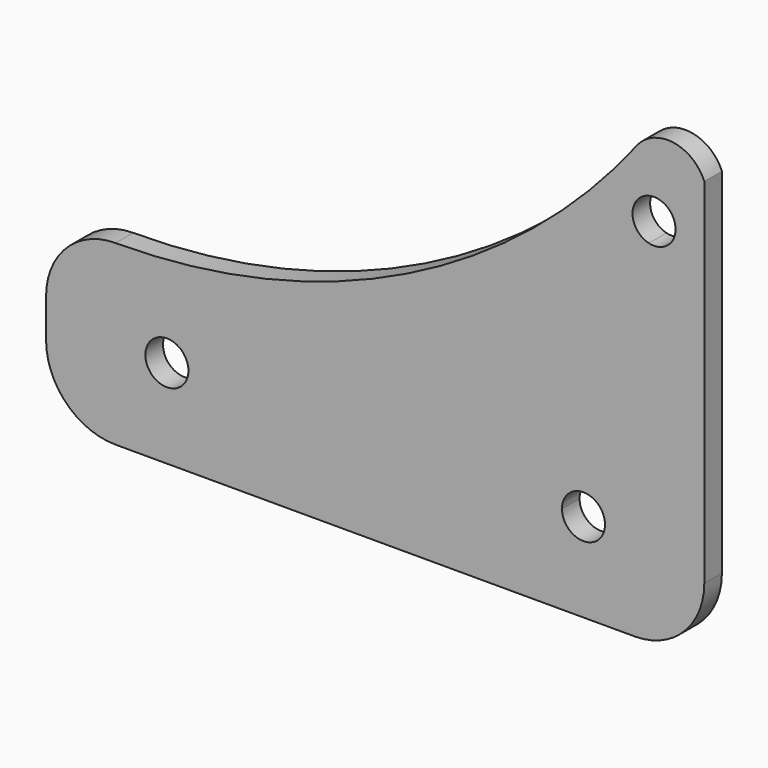
from build123d import *

# Parameters (mm, degrees)
F0_R     = 3.1
F1_DEPTH = 3.175


with BuildPart() as f1:
    # F0 (on Front) → F1 (new body)
    with BuildSketch(Plane.XZ):
        with BuildLine():
            Line((-37.399294, 12.782879), (33.18713, 12.782879))
            Line((33.18713, 12.782879), (47.399294, 12.782879))
            Line((47.399294, 12.782879), (47.399294, 48.182173))
            ThreePointArc((47.399294, 48.182173), (43.129985, 51.621773), (37.936869, 49.864105))
            ThreePointArc((37.936869, 49.864105), (4.584497, 22.555471), (-37.399294, 12.782879))
        make_face()
        with BuildLine():
            ThreePointArc((43.26072, 40.752421), (42.06927, 38.309587), (39.410762, 37.744504))
            ThreePointArc((39.410762, 37.744504), (38.252169, 43.195254), (43.26072, 40.752421))
        make_face(mode=Mode.SUBTRACT)
        with BuildLine():
            Line((47.399294, 12.782879), (33.18713, 12.782879))
            Line((33.18713, 12.782879), (-37.399294, 12.782879))
            ThreePointArc((-37.399294, 12.782879), (-44.470361, 9.853947), (-47.399294, 2.782879))
            Line((-47.399294, 2.782879), (-47.399294, -2.782879))
            ThreePointArc((-47.399294, -2.782879), (-44.470361, -9.853947), (-37.399294, -12.782879))
            Line((-37.399294, -12.782879), (37.399294, -12.782879))
            ThreePointArc((37.399294, -12.782879), (44.470361, -9.853947), (47.399294, -2.782879))
            Line((47.399294, -2.782879), (47.399294, 12.782879))
        make_face()
        with Locations((-30, 0)):
            Circle(F0_R, mode=Mode.SUBTRACT)
        with BuildLine():
            ThreePointArc((33.1, 0), (30, -3.1), (26.9, 0))
            ThreePointArc((26.9, 0), (28.091449, 2.442833), (30.749958, 3.007917))
            ThreePointArc((30.749958, 3.007917), (32.442833, 1.908551), (33.1, 0))
        make_face(mode=Mode.SUBTRACT)
    extrude(amount=F1_DEPTH)


solid = f1.part
